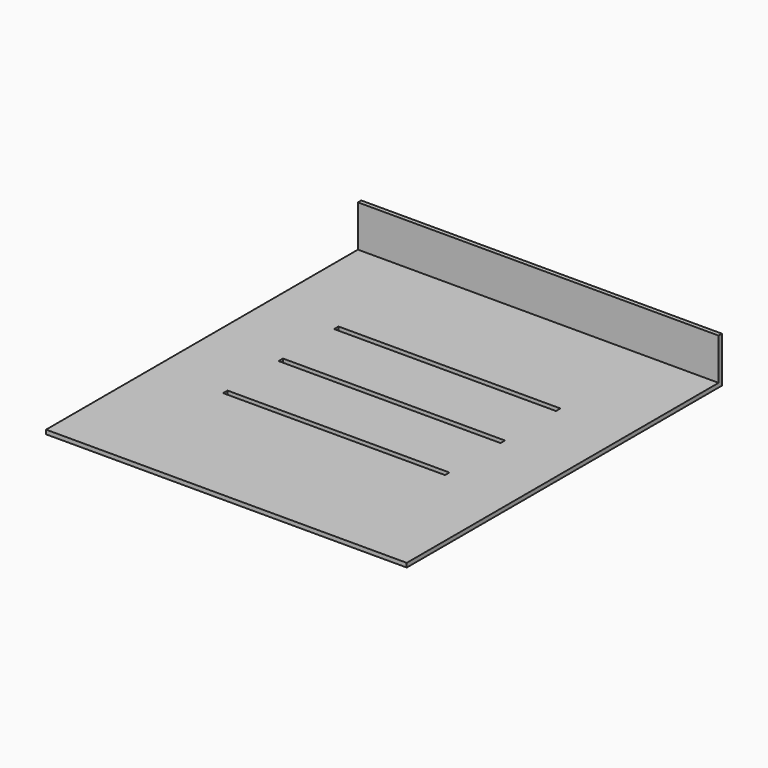
from build123d import *

# Parameters (mm, degrees)
F2_W     = 130
F2_H     = 140.5
F3_DEPTH = 1.5
F2_H_2   = 1.5
F4_DEPTH = 16.5
F5_W     = 80
F5_H     = 2
F6_DEPTH = 1.501


with BuildPart() as f3:
    # F2 (on Top) → F3 (new body)
    with BuildSketch(Plane.XY):
        with Locations((0, -0.75)):
            Rectangle(F2_W, F2_H)
    extrude(amount=F3_DEPTH)

    # F2 (on Top) → F4 (join)
    with BuildSketch(Plane.XY):
        with Locations((0, 70.25)):
            Rectangle(F2_W, F2_H_2)
    extrude(amount=F4_DEPTH)

    # F5 (on face) → F6 (cut, through all)
    with BuildSketch(Plane.XY.offset(1.5)):
        with Locations((0, 28.5)):
            Rectangle(F5_W, F5_H)
        with Locations((0, 3.5)):
            Rectangle(F5_W, F5_H)
        with Locations((0, -21.5)):
            Rectangle(F5_W, F5_H)
    extrude(amount=-F6_DEPTH, mode=Mode.SUBTRACT)


solid = f3.part
